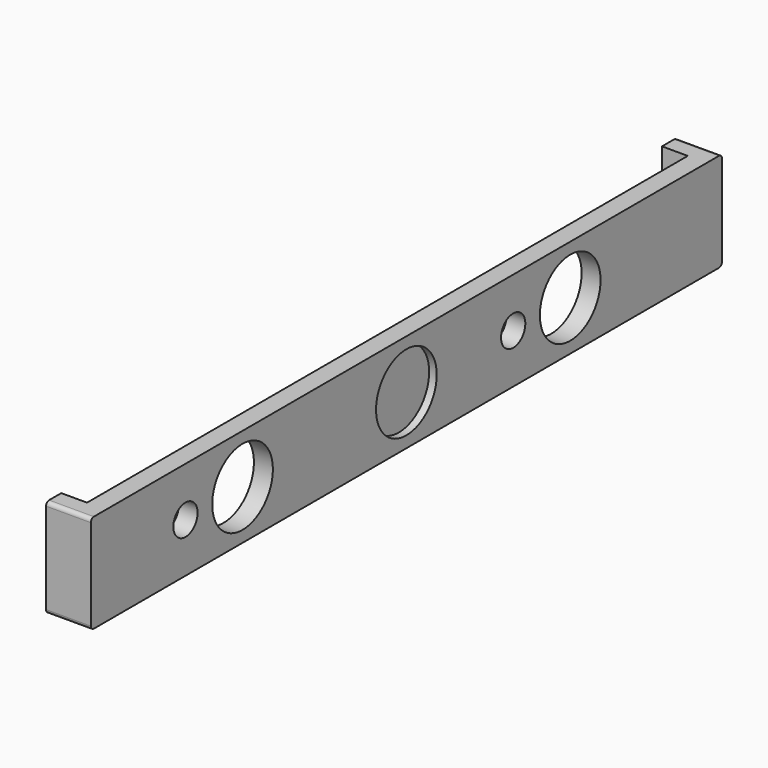
from build123d import *

# Parameters (mm, degrees)
F0_W      = 52
F0_H      = 6.5
F1_DEPTH  = 0.625
F2_W      = 1.25
F2_H      = 6.5
F3_DEPTH  = 1.7
F4_R      = 0.25
F5_R      = 2.5
F6_DEPTH  = 1.25
F7_R      = 1
F8_DEPTH  = 1.25
F9_R      = 2.5
F10_DEPTH = 0.5


with BuildPart() as f1:
    # F0 (on Right) → F1 (new body, symmetric)
    with BuildSketch(Plane.YZ):
        Rectangle(F0_W, F0_H)
    extrude(amount=F1_DEPTH, both=True)

    # F2 (on face) → F3 (join)
    with BuildSketch(Plane(origin=(-0.625, 0, 0), x_dir=(0, -1, 0), z_dir=(-1, 0, 0))):
        with Locations((-25.375, 0)):
            Rectangle(F2_W, F2_H)
        with Locations((25.375, 0)):
            Rectangle(F2_W, F2_H)
    extrude(amount=F3_DEPTH)

    # F4
    f4_edges = [f1.edges().sort_by_distance(p)[0] for p in [
        (-0.85, -26, 3.25),
        (-0.85, -26, -3.25),
        (-0.85, 26, 3.25),
        (-0.85, 26, -3.25),
    ]]
    fillet(f4_edges, radius=F4_R)

    # F5 (on face) → F6 (cut, through all)
    with BuildSketch(Plane.YZ.offset(0.625)):
        with Locations((-13.5, 0)):
            Circle(F5_R)
        with Locations((13.5, 0)):
            Circle(F5_R)
    extrude(amount=-F6_DEPTH, mode=Mode.SUBTRACT)

    # F7 (on face) → F8 (cut, through all)
    with BuildSketch(Plane(origin=(-0.625, 0, 0), x_dir=(0, -1, 0), z_dir=(-1, 0, 0))):
        with Locations((-8.8, 0)):
            Circle(F7_R)
        with Locations((18.2, 0)):
            Circle(F7_R)
    extrude(amount=-F8_DEPTH, mode=Mode.SUBTRACT)

    # F9 (on face) → F10 (cut)
    with BuildSketch(Plane.YZ.offset(0.625)):
        Circle(F9_R)
    extrude(amount=-F10_DEPTH, mode=Mode.SUBTRACT)


solid = f1.part
